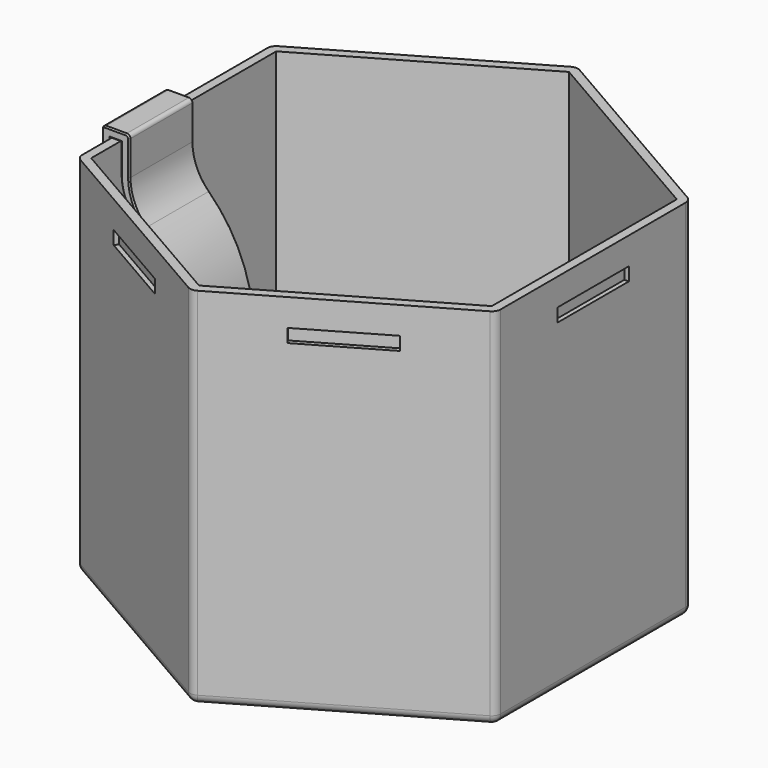
from build123d import *

# Parameters (mm, degrees)
PAD001_DEPTH       = 18
CHAMFER_SIZE       = 0.3
PAD_DEPTH          = 80
THICKNESS_T        = 2
SKETCH002_W        = 20
SKETCH002_H        = 3
POCKET_DEPTH       = 1
POLARPATTERN_COUNT = 6


with BuildPart() as wings:
    # Sketch001 → Pad001 (new body)
    with BuildSketch(Plane.XZ):
        with BuildLine():
            Line((-47, 73.5), (-47, 80))
            Line((-47, 80), (-44.8, 80))
            Line((-44.8, 80), (-44.8, 73.5))
            ThreePointArc((-44.8, 73.5), (-43.7918810074, 68.7917829084), (-40.9442963572, 64.9091454356))
            ThreePointArc((-44.7274259362, 14.5027845028), (-30.3701869984, 38.7703834331), (-40.9442963572, 64.9091454356))
            ThreePointArc((-44.7274259362, 14.5027845028), (-44.9027845028, 13.6725740638), (-44.0725740638, 13.4972154972))
            ThreePointArc((-44.0725740638, 13.4972154972), (-29.2319520072, 37.99758511), (-39.1416001485, 64.873430174))
            ThreePointArc((-42.8, 73.5), (-41.8476061158, 68.8148746965), (-39.1416001485, 64.873430174))
            Line((-42.8, 81.2), (-42.8, 73.5))
            ThreePointArc((-42.8, 81.2), (-43.0343145751, 81.7656854249), (-43.6, 82))
            Line((-48.2, 82), (-43.6, 82))
            ThreePointArc((-48.2, 82), (-48.7656854249, 81.7656854249), (-49, 81.2))
            Line((-49, 72.7), (-49, 81.2))
            ThreePointArc((-49, 72.7), (-48.7656854249, 72.1343145751), (-48.2, 71.9))
            Line((-47, 71.9), (-48.2, 71.9))
            Line((-46.2, 72.5), (-47, 71.9))
            Line((-46.2, 73.5), (-46.2, 72.5))
            Line((-46.2, 73.5), (-47, 73.5))
        make_face()
    extrude(amount=PAD001_DEPTH)

    # Chamfer
    chamfer_edges = [wings.edges().sort_by_distance(p)[0] for p in [
        (-46.6, -18, 73.5),
        (-47, -18, 76.75),
        (-45.9, -18, 80),
        (-44.8, -18, 76.75),
        (-43.791881, -18, 68.791783),
        (-30.370187, -18, 38.770383),
        (-44.902785, -18, 13.672574),
        (-29.231952, -18, 37.997585),
        (-41.847606, -18, 68.814875),
        (-42.8, -18, 77.35),
        (-43.034315, -18, 81.765685),
        (-45.9, -18, 82),
        (-48.765685, -18, 81.765685),
        (-49, -18, 76.95),
        (-48.765685, -18, 72.134315),
        (-47.6, -18, 71.9),
        (-46.6, -18, 72.2),
        (-46.2, -18, 73),
        (-46.6, 0, 73.5),
        (-47, 0, 76.75),
        (-45.9, 0, 80),
        (-44.8, 0, 76.75),
        (-43.791881, 0, 68.791783),
        (-30.370187, 0, 38.770383),
        (-44.902785, 0, 13.672574),
        (-29.231952, 0, 37.997585),
        (-41.847606, 0, 68.814875),
        (-42.8, 0, 77.35),
        (-43.034315, 0, 81.765685),
        (-45.9, 0, 82),
        (-48.765685, 0, 81.765685),
        (-49, 0, 76.95),
        (-48.765685, 0, 72.134315),
        (-47.6, 0, 71.9),
        (-46.6, 0, 72.2),
        (-46.2, 0, 73),
    ]]
    chamfer(chamfer_edges, length=CHAMFER_SIZE)


with BuildPart() as body:
    # Sketch → Pad (new body)
    with BuildSketch(Plane.XY):
        Polygon((0, -51.961524227), (45, -25.9807621135), (45, 25.9807621135), (0, 51.9615242271), (-45, 25.9807621136), (-45, -25.9807621135), align=None)
    extrude(amount=PAD_DEPTH)

    # Thickness
    thickness_openings = [body.faces().sort_by_distance(p)[0] for p in [
        (0, 0, 80),
    ]]
    offset(amount=THICKNESS_T, openings=thickness_openings)

    # Sketch002 (on Face20 of Thickness) → Pocket (cut)
    with BuildSketch(Plane(origin=(-23.5, -40.7031939778, 0), x_dir=(0.8660254038, -0.5, 0), z_dir=(-0.5, -0.8660254038, 0))):
        with Locations((0, 72.4)):
            Rectangle(SKETCH002_W, SKETCH002_H)
    pocket = extrude(amount=-POCKET_DEPTH, mode=Mode.SUBTRACT)

    # PolarPattern: Pocket ×6 about axis
    polarpattern_axis = Axis((0, 0, 0), (0, 0, 1))
    for i in range(1, POLARPATTERN_COUNT):
        add(pocket.rotate(polarpattern_axis, i * 360 / POLARPATTERN_COUNT), mode=Mode.SUBTRACT)


solid = Compound([wings.part, body.part])
